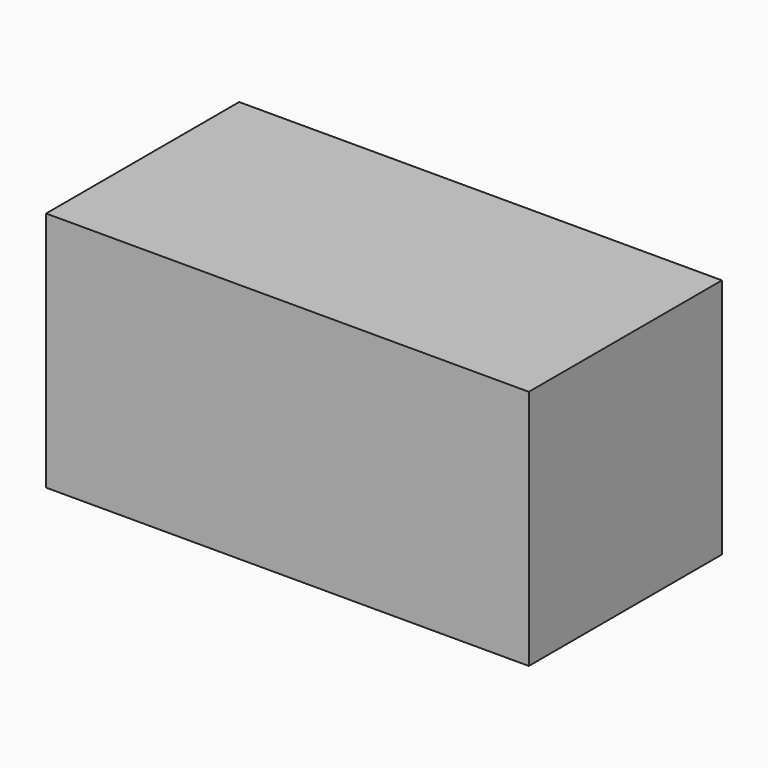
from build123d import *

# Parameters (mm, degrees)
SKETCH_W     = 1219.2
SKETCH_H     = 609.6
PAD_DEPTH    = 63.5
PAD001_DEPTH = 546.1


with BuildPart() as part:
    # Sketch → Pad (new body)
    with BuildSketch(Plane.XY):
        with Locations((609.6, 304.8)):
            Rectangle(SKETCH_W, SKETCH_H)
    extrude(amount=PAD_DEPTH)

    # Sketch → Pad001 (join)
    with BuildSketch(Plane.XY):
        with Locations((609.6, 304.8)):
            Rectangle(SKETCH_W, SKETCH_H)
    extrude(amount=-PAD001_DEPTH)


solid = part.part
